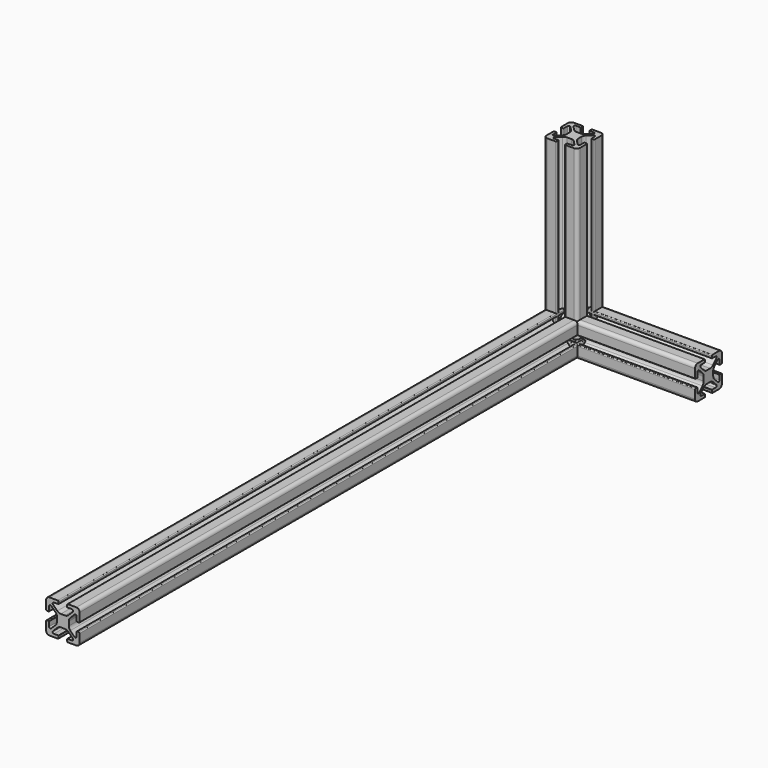
from build123d import *

# Parameters (mm, degrees)
F1_DEPTH = 100
F3_DEPTH = 80
F5_DEPTH = 380


with BuildPart() as f1:
    # F0 (on Top) → F1 (new body)
    with BuildSketch(Plane.XY):
        with BuildLine():
            Line((-10, -3), (-10, -8))
            ThreePointArc((-10, -8), (-9.414214, -9.414214), (-8, -10))
            Line((-8, -10), (-3, -10))
            ThreePointArc((-3, -10), (-2.646447, -9.853553), (-2.5, -9.5))
            Line((-2.5, -9.5), (-2.5, -8.4))
            ThreePointArc((-2.5, -8.4), (-2.558579, -8.258579), (-2.7, -8.2))
            Line((-2.7, -8.2), (-5.342822, -8.2))
            ThreePointArc((-5.342822, -8.2), (-6.035731, -7.737013), (-5.873152, -6.91967))
            Line((-5.873152, -6.91967), (-3.352162, -4.39868))
            ThreePointArc((-3.352162, -4.39868), (-2.378892, -3.748361), (-1.230841, -3.52))
            Line((-1.230841, -3.52), (1.230841, -3.52))
            ThreePointArc((1.230841, -3.52), (2.378892, -3.748361), (3.352162, -4.39868))
            Line((3.352162, -4.39868), (5.873152, -6.91967))
            ThreePointArc((5.873152, -6.91967), (6.035731, -7.737013), (5.342822, -8.2))
            Line((5.342822, -8.2), (2.7, -8.2))
            ThreePointArc((2.7, -8.2), (2.558579, -8.258579), (2.5, -8.4))
            Line((2.5, -8.4), (2.5, -9.5))
            ThreePointArc((2.5, -9.5), (2.646447, -9.853553), (3, -10))
            Line((3, -10), (8, -10))
            ThreePointArc((8, -10), (9.414214, -9.414214), (10, -8))
            Line((10, -8), (10, -3))
            ThreePointArc((10, -3), (9.853553, -2.646447), (9.5, -2.5))
            Line((9.5, -2.5), (8.4, -2.5))
            ThreePointArc((8.4, -2.5), (8.258579, -2.558579), (8.2, -2.7))
            Line((8.2, -2.7), (8.2, -5.342822))
            ThreePointArc((8.2, -5.342822), (7.737013, -6.035731), (6.91967, -5.873152))
            Line((6.91967, -5.873152), (4.39868, -3.352162))
            ThreePointArc((4.39868, -3.352162), (3.748361, -2.378892), (3.52, -1.230841))
            Line((3.52, -1.230841), (3.52, 1.230841))
            ThreePointArc((3.52, 1.230841), (3.748361, 2.378892), (4.39868, 3.352162))
            Line((4.39868, 3.352162), (6.91967, 5.873152))
            ThreePointArc((6.91967, 5.873152), (7.737013, 6.035731), (8.2, 5.342822))
            Line((8.2, 5.342822), (8.2, 2.7))
            ThreePointArc((8.2, 2.7), (8.258579, 2.558579), (8.4, 2.5))
            Line((8.4, 2.5), (9.5, 2.5))
            ThreePointArc((9.5, 2.5), (9.853553, 2.646447), (10, 3))
            Line((10, 3), (10, 8))
            ThreePointArc((10, 8), (9.414214, 9.414214), (8, 10))
            Line((8, 10), (3, 10))
            ThreePointArc((3, 10), (2.646447, 9.853553), (2.5, 9.5))
            Line((2.5, 9.5), (2.5, 8.4))
            ThreePointArc((2.5, 8.4), (2.558579, 8.258579), (2.7, 8.2))
            Line((2.7, 8.2), (5.342822, 8.2))
            ThreePointArc((5.342822, 8.2), (6.035731, 7.737013), (5.873152, 6.91967))
            Line((5.873152, 6.91967), (3.352162, 4.39868))
            ThreePointArc((3.352162, 4.39868), (2.378892, 3.748361), (1.230841, 3.52))
            Line((1.230841, 3.52), (-1.230841, 3.52))
            ThreePointArc((-1.230841, 3.52), (-2.378892, 3.748361), (-3.352162, 4.39868))
            Line((-3.352162, 4.39868), (-5.873152, 6.91967))
            ThreePointArc((-5.873152, 6.91967), (-6.035731, 7.737013), (-5.342822, 8.2))
            Line((-5.342822, 8.2), (-2.7, 8.2))
            ThreePointArc((-2.7, 8.2), (-2.558579, 8.258579), (-2.5, 8.4))
            Line((-2.5, 8.4), (-2.5, 9.5))
            ThreePointArc((-2.5, 9.5), (-2.646447, 9.853553), (-3, 10))
            Line((-3, 10), (-8, 10))
            ThreePointArc((-8, 10), (-9.414214, 9.414214), (-10, 8))
            Line((-10, 8), (-10, 3))
            ThreePointArc((-10, 3), (-9.853553, 2.646447), (-9.5, 2.5))
            Line((-9.5, 2.5), (-8.4, 2.5))
            ThreePointArc((-8.4, 2.5), (-8.258579, 2.558579), (-8.2, 2.7))
            Line((-8.2, 2.7), (-8.2, 5.342822))
            ThreePointArc((-8.2, 5.342822), (-7.737013, 6.035731), (-6.91967, 5.873152))
            Line((-6.91967, 5.873152), (-4.39868, 3.352162))
            ThreePointArc((-4.39868, 3.352162), (-3.748361, 2.378892), (-3.52, 1.230841))
            Line((-3.52, 1.230841), (-3.52, -1.230841))
            ThreePointArc((-3.52, -1.230841), (-3.748361, -2.378892), (-4.39868, -3.352162))
            Line((-4.39868, -3.352162), (-6.91967, -5.873152))
            ThreePointArc((-6.91967, -5.873152), (-7.737013, -6.035731), (-8.2, -5.342822))
            Line((-8.2, -5.342822), (-8.2, -2.7))
            ThreePointArc((-8.2, -2.7), (-8.258579, -2.558579), (-8.4, -2.5))
            Line((-8.4, -2.5), (-9.5, -2.5))
            ThreePointArc((-9.5, -2.5), (-9.853553, -2.646447), (-10, -3))
        make_face()
    extrude(amount=F1_DEPTH)


with BuildPart() as f3:
    # F2 (on Right) → F3 (new body)
    with BuildSketch(Plane.YZ):
        with BuildLine():
            Line((-10, -3), (-10, -8))
            ThreePointArc((-10, -8), (-9.414214, -9.414214), (-8, -10))
            Line((-8, -10), (-3, -10))
            ThreePointArc((-3, -10), (-2.646447, -9.853553), (-2.5, -9.5))
            Line((-2.5, -9.5), (-2.5, -8.4))
            ThreePointArc((-2.5, -8.4), (-2.558579, -8.258579), (-2.7, -8.2))
            Line((-2.7, -8.2), (-5.342822, -8.2))
            ThreePointArc((-5.342822, -8.2), (-6.035731, -7.737013), (-5.873152, -6.91967))
            Line((-5.873152, -6.91967), (-3.352162, -4.39868))
            ThreePointArc((-3.352162, -4.39868), (-2.378892, -3.748361), (-1.230841, -3.52))
            Line((-1.230841, -3.52), (1.230841, -3.52))
            ThreePointArc((1.230841, -3.52), (2.378892, -3.748361), (3.352162, -4.39868))
            Line((3.352162, -4.39868), (5.873152, -6.91967))
            ThreePointArc((5.873152, -6.91967), (6.035731, -7.737013), (5.342822, -8.2))
            Line((5.342822, -8.2), (2.7, -8.2))
            ThreePointArc((2.7, -8.2), (2.558579, -8.258579), (2.5, -8.4))
            Line((2.5, -8.4), (2.5, -9.5))
            ThreePointArc((2.5, -9.5), (2.646447, -9.853553), (3, -10))
            Line((3, -10), (8, -10))
            ThreePointArc((8, -10), (9.414214, -9.414214), (10, -8))
            Line((10, -8), (10, -3))
            ThreePointArc((10, -3), (9.853553, -2.646447), (9.5, -2.5))
            Line((9.5, -2.5), (8.4, -2.5))
            ThreePointArc((8.4, -2.5), (8.258579, -2.558579), (8.2, -2.7))
            Line((8.2, -2.7), (8.2, -5.342822))
            ThreePointArc((8.2, -5.342822), (7.737013, -6.035731), (6.91967, -5.873152))
            Line((6.91967, -5.873152), (4.39868, -3.352162))
            ThreePointArc((4.39868, -3.352162), (3.748361, -2.378892), (3.52, -1.230841))
            Line((3.52, -1.230841), (3.52, 1.230841))
            ThreePointArc((3.52, 1.230841), (3.748361, 2.378892), (4.39868, 3.352162))
            Line((4.39868, 3.352162), (6.91967, 5.873152))
            ThreePointArc((6.91967, 5.873152), (7.737013, 6.035731), (8.2, 5.342822))
            Line((8.2, 5.342822), (8.2, 2.7))
            ThreePointArc((8.2, 2.7), (8.258579, 2.558579), (8.4, 2.5))
            Line((8.4, 2.5), (9.5, 2.5))
            ThreePointArc((9.5, 2.5), (9.853553, 2.646447), (10, 3))
            Line((10, 3), (10, 8))
            ThreePointArc((10, 8), (9.414214, 9.414214), (8, 10))
            Line((8, 10), (3, 10))
            ThreePointArc((3, 10), (2.646447, 9.853553), (2.5, 9.5))
            Line((2.5, 9.5), (2.5, 8.4))
            ThreePointArc((2.5, 8.4), (2.558579, 8.258579), (2.7, 8.2))
            Line((2.7, 8.2), (5.342822, 8.2))
            ThreePointArc((5.342822, 8.2), (6.035731, 7.737013), (5.873152, 6.91967))
            Line((5.873152, 6.91967), (3.352162, 4.39868))
            ThreePointArc((3.352162, 4.39868), (2.378892, 3.748361), (1.230841, 3.52))
            Line((1.230841, 3.52), (-1.230841, 3.52))
            ThreePointArc((-1.230841, 3.52), (-2.378892, 3.748361), (-3.352162, 4.39868))
            Line((-3.352162, 4.39868), (-5.873152, 6.91967))
            ThreePointArc((-5.873152, 6.91967), (-6.035731, 7.737013), (-5.342822, 8.2))
            Line((-5.342822, 8.2), (-2.7, 8.2))
            ThreePointArc((-2.7, 8.2), (-2.558579, 8.258579), (-2.5, 8.4))
            Line((-2.5, 8.4), (-2.5, 9.5))
            ThreePointArc((-2.5, 9.5), (-2.646447, 9.853553), (-3, 10))
            Line((-3, 10), (-8, 10))
            ThreePointArc((-8, 10), (-9.414214, 9.414214), (-10, 8))
            Line((-10, 8), (-10, 3))
            ThreePointArc((-10, 3), (-9.853553, 2.646447), (-9.5, 2.5))
            Line((-9.5, 2.5), (-8.4, 2.5))
            ThreePointArc((-8.4, 2.5), (-8.258579, 2.558579), (-8.2, 2.7))
            Line((-8.2, 2.7), (-8.2, 5.342822))
            ThreePointArc((-8.2, 5.342822), (-7.737013, 6.035731), (-6.91967, 5.873152))
            Line((-6.91967, 5.873152), (-4.39868, 3.352162))
            ThreePointArc((-4.39868, 3.352162), (-3.748361, 2.378892), (-3.52, 1.230841))
            Line((-3.52, 1.230841), (-3.52, -1.230841))
            ThreePointArc((-3.52, -1.230841), (-3.748361, -2.378892), (-4.39868, -3.352162))
            Line((-4.39868, -3.352162), (-6.91967, -5.873152))
            ThreePointArc((-6.91967, -5.873152), (-7.737013, -6.035731), (-8.2, -5.342822))
            Line((-8.2, -5.342822), (-8.2, -2.7))
            ThreePointArc((-8.2, -2.7), (-8.258579, -2.558579), (-8.4, -2.5))
            Line((-8.4, -2.5), (-9.5, -2.5))
            ThreePointArc((-9.5, -2.5), (-9.853553, -2.646447), (-10, -3))
        make_face()
    extrude(amount=F3_DEPTH)


with BuildPart() as f5:
    # F4 (on Front) → F5 (new body)
    with BuildSketch(Plane.XZ):
        with BuildLine():
            Line((-10, -3), (-10, -8))
            ThreePointArc((-10, -8), (-9.414214, -9.414214), (-8, -10))
            Line((-8, -10), (-3, -10))
            ThreePointArc((-3, -10), (-2.646447, -9.853553), (-2.5, -9.5))
            Line((-2.5, -9.5), (-2.5, -8.4))
            ThreePointArc((-2.5, -8.4), (-2.558579, -8.258579), (-2.7, -8.2))
            Line((-2.7, -8.2), (-5.342822, -8.2))
            ThreePointArc((-5.342822, -8.2), (-6.035731, -7.737013), (-5.873152, -6.91967))
            Line((-5.873152, -6.91967), (-3.352162, -4.39868))
            ThreePointArc((-3.352162, -4.39868), (-2.378892, -3.748361), (-1.230841, -3.52))
            Line((-1.230841, -3.52), (1.230841, -3.52))
            ThreePointArc((1.230841, -3.52), (2.378892, -3.748361), (3.352162, -4.39868))
            Line((3.352162, -4.39868), (5.873152, -6.91967))
            ThreePointArc((5.873152, -6.91967), (6.035731, -7.737013), (5.342822, -8.2))
            Line((5.342822, -8.2), (2.7, -8.2))
            ThreePointArc((2.7, -8.2), (2.558579, -8.258579), (2.5, -8.4))
            Line((2.5, -8.4), (2.5, -9.5))
            ThreePointArc((2.5, -9.5), (2.646447, -9.853553), (3, -10))
            Line((3, -10), (8, -10))
            ThreePointArc((8, -10), (9.414214, -9.414214), (10, -8))
            Line((10, -8), (10, -3))
            ThreePointArc((10, -3), (9.853553, -2.646447), (9.5, -2.5))
            Line((9.5, -2.5), (8.4, -2.5))
            ThreePointArc((8.4, -2.5), (8.258579, -2.558579), (8.2, -2.7))
            Line((8.2, -2.7), (8.2, -5.342822))
            ThreePointArc((8.2, -5.342822), (7.737013, -6.035731), (6.91967, -5.873152))
            Line((6.91967, -5.873152), (4.39868, -3.352162))
            ThreePointArc((4.39868, -3.352162), (3.748361, -2.378892), (3.52, -1.230841))
            Line((3.52, -1.230841), (3.52, 1.230841))
            ThreePointArc((3.52, 1.230841), (3.748361, 2.378892), (4.39868, 3.352162))
            Line((4.39868, 3.352162), (6.91967, 5.873152))
            ThreePointArc((6.91967, 5.873152), (7.737013, 6.035731), (8.2, 5.342822))
            Line((8.2, 5.342822), (8.2, 2.7))
            ThreePointArc((8.2, 2.7), (8.258579, 2.558579), (8.4, 2.5))
            Line((8.4, 2.5), (9.5, 2.5))
            ThreePointArc((9.5, 2.5), (9.853553, 2.646447), (10, 3))
            Line((10, 3), (10, 8))
            ThreePointArc((10, 8), (9.414214, 9.414214), (8, 10))
            Line((8, 10), (3, 10))
            ThreePointArc((3, 10), (2.646447, 9.853553), (2.5, 9.5))
            Line((2.5, 9.5), (2.5, 8.4))
            ThreePointArc((2.5, 8.4), (2.558579, 8.258579), (2.7, 8.2))
            Line((2.7, 8.2), (5.342822, 8.2))
            ThreePointArc((5.342822, 8.2), (6.035731, 7.737013), (5.873152, 6.91967))
            Line((5.873152, 6.91967), (3.352162, 4.39868))
            ThreePointArc((3.352162, 4.39868), (2.378892, 3.748361), (1.230841, 3.52))
            Line((1.230841, 3.52), (-1.230841, 3.52))
            ThreePointArc((-1.230841, 3.52), (-2.378892, 3.748361), (-3.352162, 4.39868))
            Line((-3.352162, 4.39868), (-5.873152, 6.91967))
            ThreePointArc((-5.873152, 6.91967), (-6.035731, 7.737013), (-5.342822, 8.2))
            Line((-5.342822, 8.2), (-2.7, 8.2))
            ThreePointArc((-2.7, 8.2), (-2.558579, 8.258579), (-2.5, 8.4))
            Line((-2.5, 8.4), (-2.5, 9.5))
            ThreePointArc((-2.5, 9.5), (-2.646447, 9.853553), (-3, 10))
            Line((-3, 10), (-8, 10))
            ThreePointArc((-8, 10), (-9.414214, 9.414214), (-10, 8))
            Line((-10, 8), (-10, 3))
            ThreePointArc((-10, 3), (-9.853553, 2.646447), (-9.5, 2.5))
            Line((-9.5, 2.5), (-8.4, 2.5))
            ThreePointArc((-8.4, 2.5), (-8.258579, 2.558579), (-8.2, 2.7))
            Line((-8.2, 2.7), (-8.2, 5.342822))
            ThreePointArc((-8.2, 5.342822), (-7.737013, 6.035731), (-6.91967, 5.873152))
            Line((-6.91967, 5.873152), (-4.39868, 3.352162))
            ThreePointArc((-4.39868, 3.352162), (-3.748361, 2.378892), (-3.52, 1.230841))
            Line((-3.52, 1.230841), (-3.52, -1.230841))
            ThreePointArc((-3.52, -1.230841), (-3.748361, -2.378892), (-4.39868, -3.352162))
            Line((-4.39868, -3.352162), (-6.91967, -5.873152))
            ThreePointArc((-6.91967, -5.873152), (-7.737013, -6.035731), (-8.2, -5.342822))
            Line((-8.2, -5.342822), (-8.2, -2.7))
            ThreePointArc((-8.2, -2.7), (-8.258579, -2.558579), (-8.4, -2.5))
            Line((-8.4, -2.5), (-9.5, -2.5))
            ThreePointArc((-9.5, -2.5), (-9.853553, -2.646447), (-10, -3))
        make_face()
    extrude(amount=F5_DEPTH)


solid = Compound([f1.part, f3.part, f5.part])
